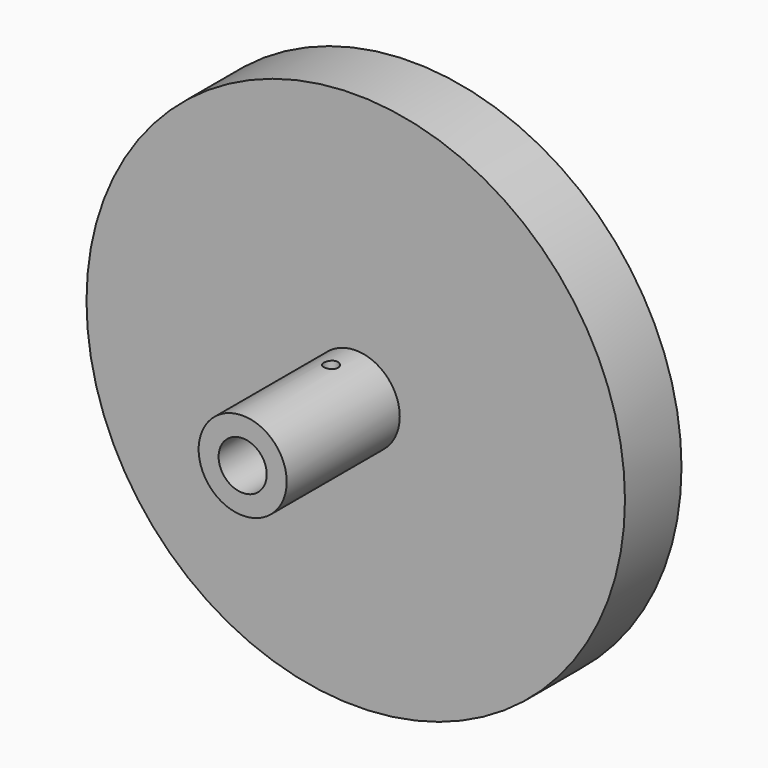
from build123d import *

# Parameters (mm, degrees)
F0_R     = 57.15
F0_R_2   = 5
F1_DEPTH = 15
F2_R     = 9.345245
F2_R_2   = 5.107746
F3_DEPTH = 30
F4_R     = 1.5
F5_DEPTH = 12.7
F6_R     = 2.25
F7_DEPTH = 10


with BuildPart() as f1:
    # F0 (on Front) → F1 (new body)
    with BuildSketch(Plane.XZ):
        Circle(F0_R)
        Circle(F0_R_2, mode=Mode.SUBTRACT)
    extrude(amount=F1_DEPTH)

    # F2 (on face) → F3 (join)
    with BuildSketch(Plane.XZ.offset(15)):
        Circle(F2_R)
        Circle(F2_R_2, mode=Mode.SUBTRACT)
    extrude(amount=F3_DEPTH)

    # F4 (on Top) → F5 (cut, symmetric)
    with BuildSketch(Plane.XY):
        with Locations((0, -21.58)):
            Circle(F4_R)
    extrude(amount=F5_DEPTH, both=True, mode=Mode.SUBTRACT)

    # F6 (on face) → F7 (cut)
    with BuildSketch(Plane(origin=(0, 0, 0), x_dir=(-1, 0, 0), z_dir=(0, 1, 0))):
        with Locations((0, 10)):
            Circle(F6_R)
        with Locations((7.071068, 7.071068)):
            Circle(F6_R)
        with Locations((10, 0)):
            Circle(F6_R)
        with Locations((0, -10)):
            Circle(F6_R)
        with Locations((7.071068, -7.071068)):
            Circle(F6_R)
        with Locations((-7.071068, -7.071068)):
            Circle(F6_R)
        with Locations((-10, 0)):
            Circle(F6_R)
        with Locations((-7.071068, 7.071068)):
            Circle(F6_R)
    extrude(amount=-F7_DEPTH, mode=Mode.SUBTRACT)


solid = f1.part
